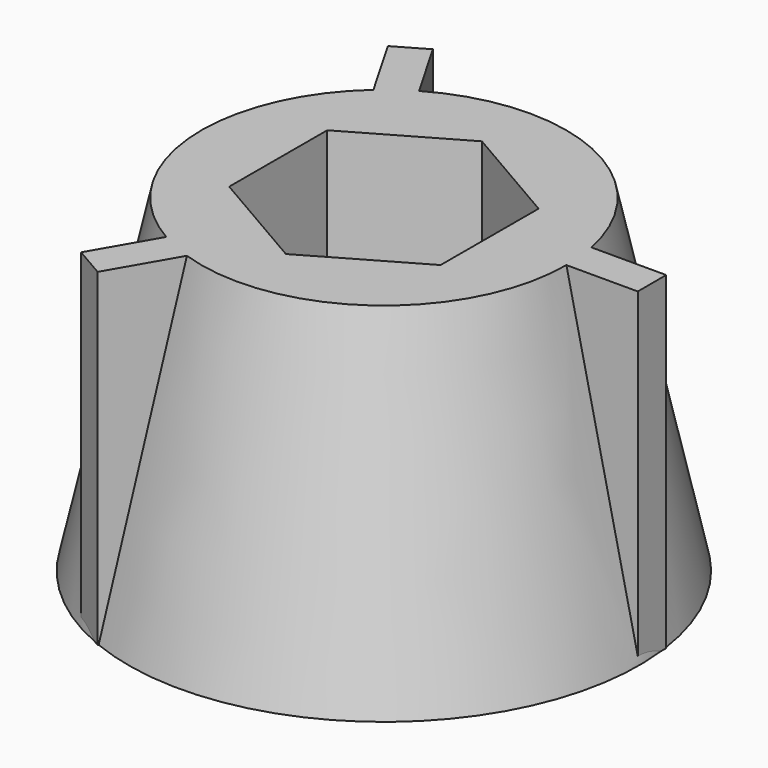
from build123d import *

# Parameters (mm, degrees)
F3_DEPTH = 25.4
F4_W     = 2.603999
F4_H     = 1.23676
F5_DEPTH = 11.43


with BuildPart() as f1:
    # F0 (on Front) → F1 (revolve)
    with BuildSketch(Plane.XZ):
        Polygon((-8.89, 0), (0, 0), (0, 11.43), (-6.35, 11.43), align=None)
    revolve(axis=Axis((0, 0, 5.715), (0, 0, 1)))

    # F2 (on face) → F3 (cut)
    with BuildSketch(Plane.XY.offset(11.43)):
        Polygon((3.68723, 2.119038), (0.008474, 4.252754), (-3.678756, 2.133716), (-3.68723, -2.119038), (-0.008474, -4.252754), (3.678756, -2.133716), align=None)
    extrude(amount=-F3_DEPTH, mode=Mode.SUBTRACT)

    # F4 (on face) → F5 (join)
    with BuildSketch(Plane.XY.offset(11.43)):
        with Locations((7.530396, 0.61838)):
            Rectangle(F4_W, F4_H)
        Polygon((-5.487264, 7.030699), (-4.185264, 4.775569), (-3.114198, 5.39395), (-4.416198, 7.649079), align=None)
        Polygon((-3.345132, -8.26746), (-2.043132, -6.01233), (-3.114198, -5.39395), (-4.416198, -7.649079), align=None)
    extrude(amount=-F5_DEPTH)


solid = f1.part
